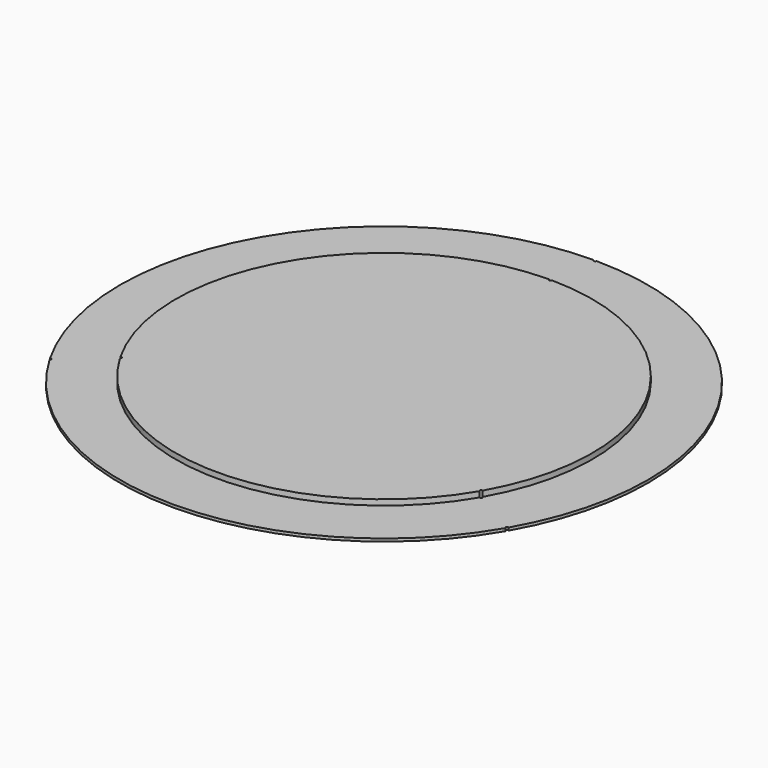
from build123d import *

# Parameters (mm, degrees)
F0_R     = 95
F0_R_2   = 75
F1_DEPTH = 1
F2_DEPTH = 3
F3_D     = 1


with BuildPart() as f1:
    # F0 (on Top) → F1 (new body)
    with BuildSketch(Plane.XY):
        Circle(F0_R)
        Circle(F0_R_2, mode=Mode.SUBTRACT)
        Circle(F0_R_2)
    extrude(amount=F1_DEPTH)

    # F0 (on Top) → F2 (join)
    with BuildSketch(Plane.XY):
        Circle(F0_R_2)
    extrude(amount=F2_DEPTH)

    # F3 (through all)
    with Locations(Plane(origin=(0, 0, 0), x_dir=(1, 0, 0), z_dir=(0, 0, -1))):
        with Locations((0, -75), (-64.9519052838, 37.5), (64.9519052838, 37.5), (82.2724133595, 47.5), (-82.2724133595, 47.5), (0, -95)):
            Hole(F3_D / 2)


solid = f1.part
